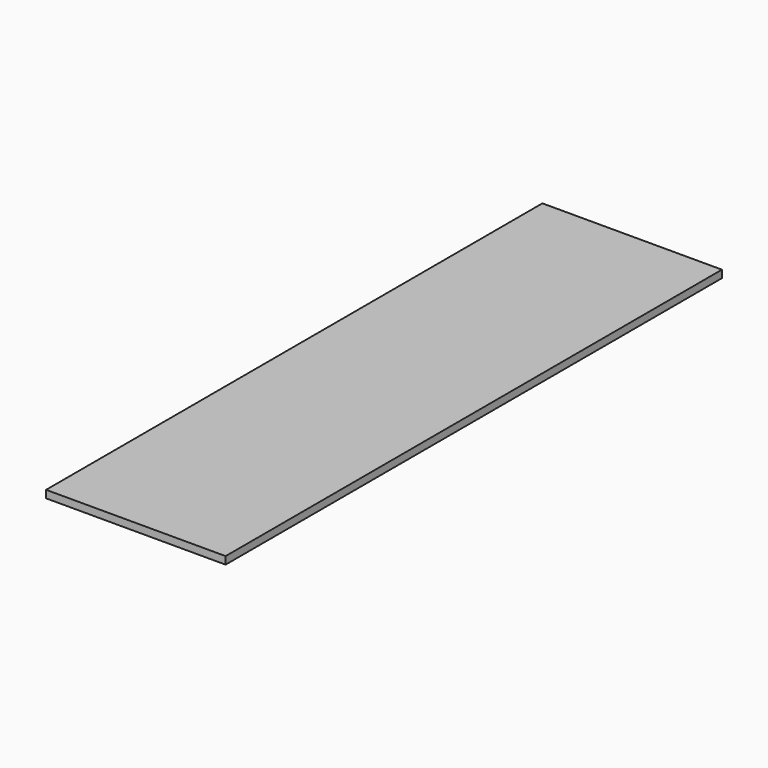
from build123d import *

# Parameters (mm, degrees)
SKETCH_W      = 142.875
SKETCH_H      = 493.7252
EXTRUDE_DEPTH = 5.9944


with BuildPart() as part:
    # Sketch → Extrude (new body)
    with BuildSketch(Plane.XY):
        with Locations((41.090204, 246.8626)):
            Rectangle(SKETCH_W, SKETCH_H)
    extrude(amount=EXTRUDE_DEPTH)


solid = part.part
